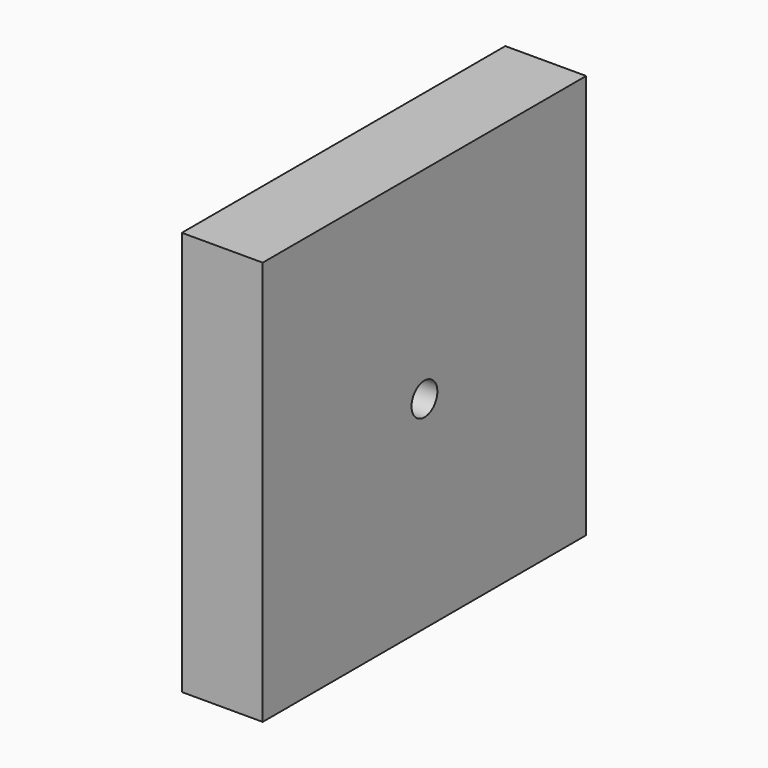
from build123d import *

# Parameters (mm, degrees)
F0_W = 30
F0_H = 150
F4_D = 12


with BuildPart() as f2:
    # F2: sweep along a path in F1
    with BuildLine(Plane.YZ) as f2_path:
        Line((0, 0), (-150, 0))
    # F0 (on Front) → F2 (sweep)
    with BuildSketch(Plane.XZ):
        with Locations((-15, 75)):
            Rectangle(F0_W, F0_H)
    sweep(path=f2_path.line)

    # F4 (through all)
    with Locations(Plane.YZ):
        with Locations((-75, 75)):
            Hole(F4_D / 2)


solid = f2.part
